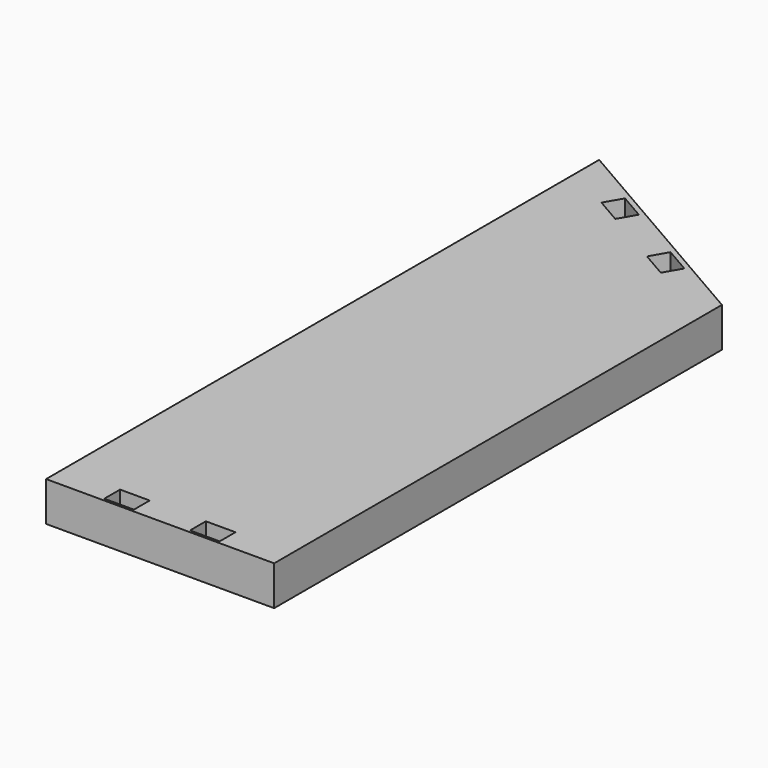
from build123d import *

# Parameters (mm, degrees)
F0_W     = 7.62
F0_H     = 5.08
F1_DEPTH = 10.16


with BuildPart() as f1:
    # F0 (on Top) → F1 (new body)
    with BuildSketch(Plane.XY):
        Polygon((35.535632, 20.467296), (-23.123154, 54.333961), (-23.123154, -123.466039), (8.804092, -123.466039), (25.314092, -123.466039), (35.535632, -123.466039), align=None)
        with Locations((-4.860554, -120.291039)):
            Rectangle(F0_W, F0_H, mode=Mode.SUBTRACT)
        with Locations((17.212046, -120.304264)):
            Rectangle(F0_W, F0_H, mode=Mode.SUBTRACT)
        Polygon((-11.14219, 40.0844), (-8.60219, 44.483809), (-2.003076, 40.673809), (-4.543076, 36.2744), align=None, mode=Mode.SUBTRACT)
        Polygon((17.212002, 23.7141), (10.612888, 27.5241), (13.152888, 31.923509), (19.752002, 28.113509), align=None, mode=Mode.SUBTRACT)
    extrude(amount=F1_DEPTH)


solid = f1.part
